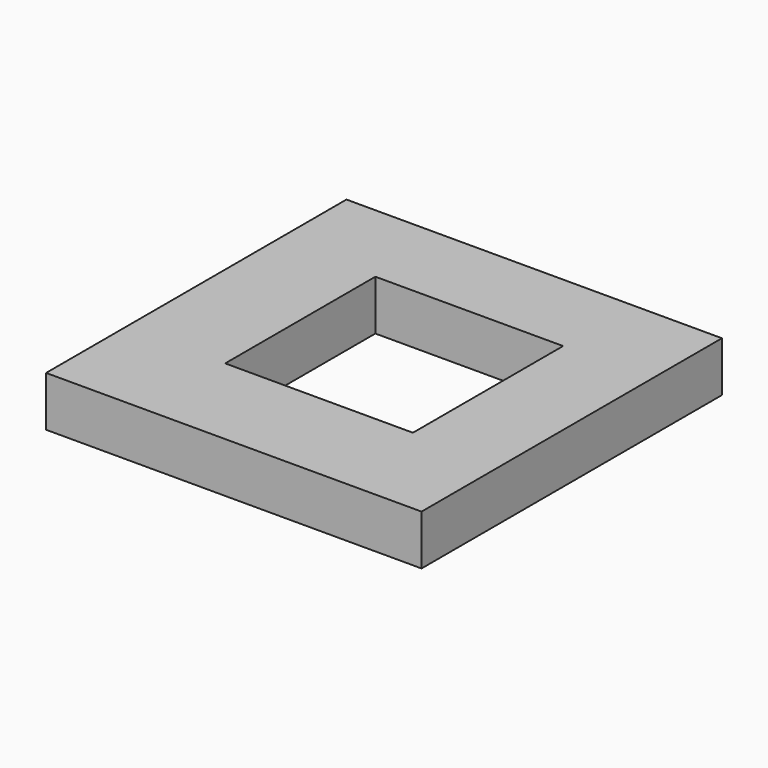
from build123d import *

# Parameters (mm, degrees)
F0_W     = 300
F0_H     = 300
F1_DEPTH = 20
F2_W     = 150
F2_H     = 150
F3_DEPTH = 50


with BuildPart() as f1:
    # F0 (on Top) → F1 (new body, symmetric)
    with BuildSketch(Plane.XY):
        with Locations((-4.049069, -3.999319)):
            Rectangle(F0_W, F0_H)
    extrude(amount=F1_DEPTH, both=True)

    # F2 (on face) → F3 (cut)
    with BuildSketch(Plane.XY.offset(20)):
        with Locations((0.162162, 0.858896)):
            Rectangle(F2_W, F2_H)
    extrude(amount=-F3_DEPTH, mode=Mode.SUBTRACT)


solid = f1.part
